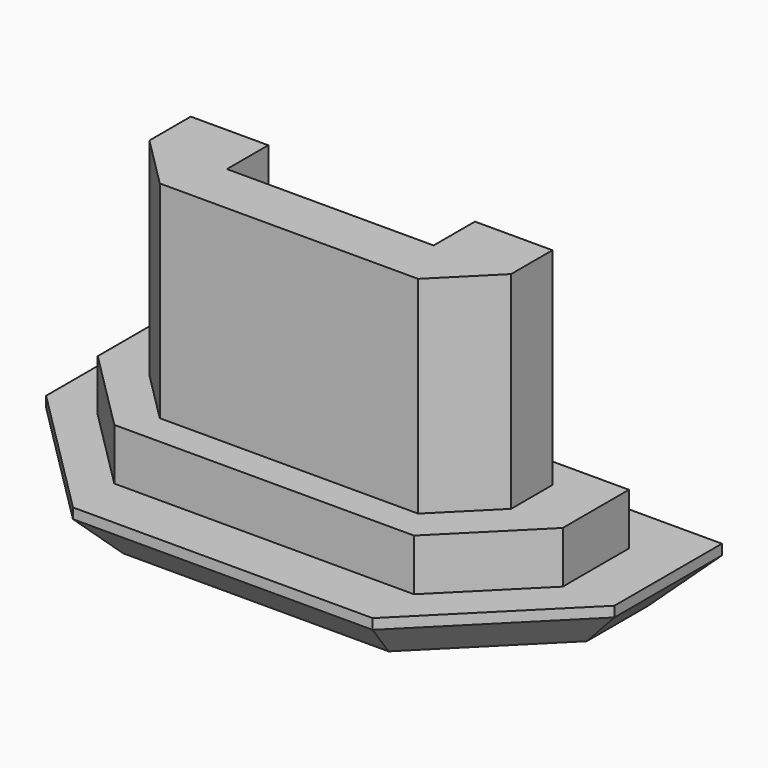
from build123d import *

# Parameters (mm, degrees)
EXTRUDE001_DEPTH = 2
EXTRUDE002_DEPTH = 6
EXTRUDE_DEPTH    = 1
CHAMFER_SIZE     = 0.8


with BuildPart() as extrude001:
    # Sketch001 → Extrude001 (new body)
    with BuildSketch(Plane.XY):
        Polygon((-4.5, 4.2), (4.5, 4.2), (4.5, 2.6), (2.9, 1), (-2.9, 1), (-4.5, 2.6), align=None)
    extrude(amount=EXTRUDE001_DEPTH)


with BuildPart() as extrude002:
    # Sketch002 → Extrude002 (new body)
    with BuildSketch(Plane.XY):
        Polygon((-3.5, 3.6), (-2, 3.6), (-2, 2.6), (2, 2.6), (2, 3.6), (3.5, 3.6), (3.5, 2.6), (2.5, 1.6), (-2.5, 1.6), (-3.5, 2.6), align=None)
    extrude(amount=EXTRUDE002_DEPTH)


with BuildPart() as chamfer_body:
    # Sketch → Extrude (new body)
    with BuildSketch(Plane.XY):
        Polygon((-5.5, 5.2), (5.5, 5.2), (5.5, 2.6), (2.9, 0), (-2.9, 0), (-5.5, 2.6), align=None)
    extrude(amount=EXTRUDE_DEPTH)

    # Fusion: union Extrude001, Extrude002
    add(extrude001.part)
    add(extrude002.part)

    # Chamfer
    chamfer_edges = [chamfer_body.edges().sort_by_distance(p)[0] for p in [
        (0, 5.2, 0),
        (-5.5, 3.9, 0),
        (5.5, 3.9, 0),
        (-4.2, 1.3, 0),
        (4.2, 1.3, 0),
        (0, 0, 0),
    ]]
    chamfer(chamfer_edges, length=CHAMFER_SIZE)


solid = chamfer_body.part
